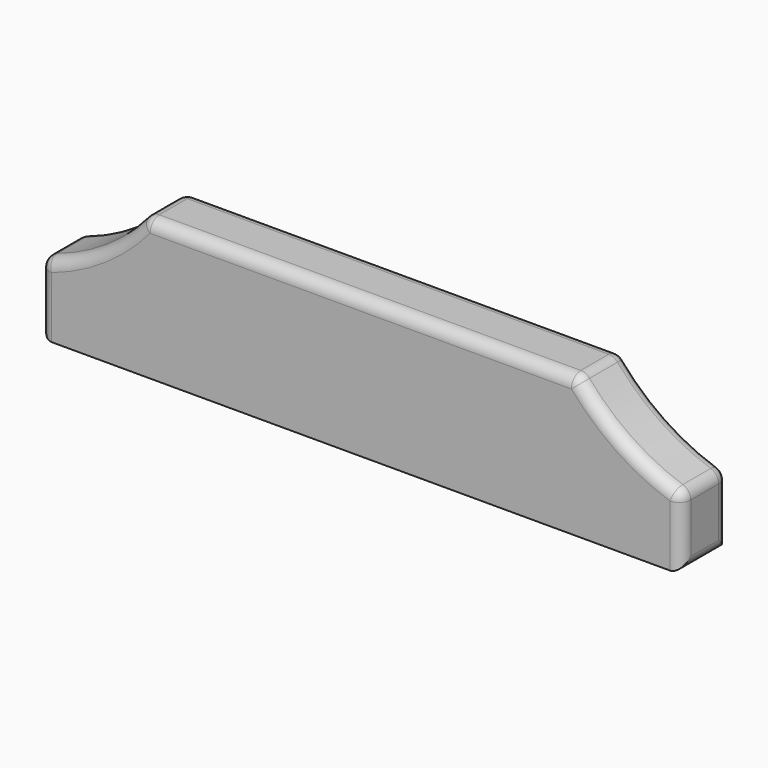
from build123d import *

# Parameters (mm, degrees)
F1_DEPTH = 25
F3_D     = 20
F3_DEPTH = 10
F3_TIP   = 6.0086061903
F4_R     = 5


with BuildPart() as f1:
    # F0 (on Front) → F1 (new body)
    with BuildSketch(Plane.XZ):
        with BuildLine():
            Line((-135.8573855514, 30), (-135.8573855514, 0))
            Line((-135.8573855514, 0), (140.1426144486, 0))
            Line((140.1426144486, 0), (140.1426144486, 30))
            ThreePointArc((140.1426144486, 30), (115.3358512852, 41.5398552549), (95.1426144486, 60))
            Line((95.1426144486, 60), (-90.8573855514, 60))
            ThreePointArc((-90.8573855514, 60), (-111.0506223879, 41.5398552549), (-135.8573855514, 30))
        make_face()
    extrude(amount=-F1_DEPTH)

    # F3
    with Locations(Plane(origin=(0, 0, 0), x_dir=(1, 0, 0), z_dir=(0, 0, -1))):
        with Locations((-66.8573855514, -12.5), (2.1426144486, -12.5), (71.1426144486, -12.5)):
            Hole(F3_D / 2, depth=F3_DEPTH)
            with Locations((0, 0, -(F3_DEPTH + F3_TIP / 2))):  # 118° drill point
                Cone(0, F3_D / 2, F3_TIP, mode=Mode.SUBTRACT)

    # F4
    f4_edges = [f1.edges().sort_by_distance(p)[0] for p in [
        (140.142614, 12.5, 0),
        (140.142614, 12.5, 30),
        (140.142614, 0, 15),
        (140.142614, 25, 15),
        (-135.857386, 12.5, 30),
        (-135.857386, 12.5, 0),
        (-135.857386, 0, 15),
        (-135.857386, 25, 15),
        (-90.857386, 12.5, 60),
        (-111.050622, 0, 41.539855),
        (-111.050622, 25, 41.539855),
        (95.142614, 12.5, 60),
        (2.142614, 0, 60),
        (2.142614, 25, 60),
        (115.335851, 0, 41.539855),
        (115.335851, 25, 41.539855),
    ]]
    fillet(f4_edges, radius=F4_R)


solid = f1.part
